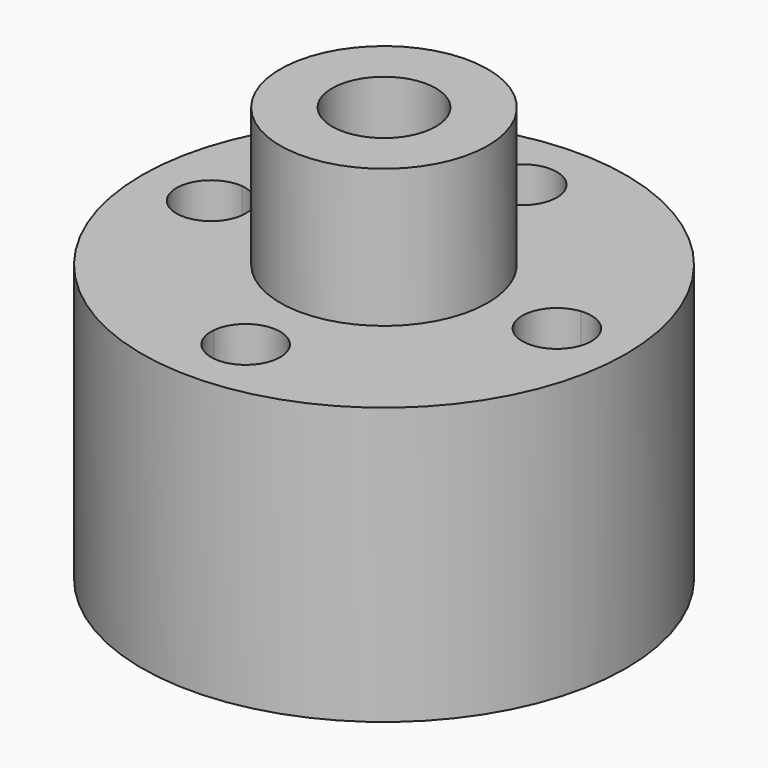
from build123d import *

# Parameters (mm, degrees)
F0_R     = 22.225
F0_R_2   = 9.525
F1_DEPTH = 25.4
F0_R_3   = 4.7625
F2_DEPTH = 38.1
F3_R     = 4.7625
F4_DEPTH = 38.1


with BuildPart() as f1:
    # F0 (on Top) → F1 (new body)
    with BuildSketch(Plane.XY):
        Circle(F0_R)
        with BuildLine():
            ThreePointArc((3.159085, 15.5575), (11.22532, 11.22532), (15.5575, 3.159085))
            ThreePointArc((15.5575, 3.159085), (18.004855, 2.354643), (19.05, 0))
            ThreePointArc((19.05, 0), (18.004855, -2.354643), (15.5575, -3.159085))
            ThreePointArc((15.5575, -3.159085), (11.22532, -11.22532), (3.159085, -15.5575))
            ThreePointArc((3.159085, -15.5575), (3.171019, -15.716051), (3.175, -15.875))
            ThreePointArc((3.175, -15.875), (-0.158949, -19.046019), (-3.159085, -15.5575))
            ThreePointArc((-3.159085, -15.5575), (-11.22532, -11.22532), (-15.5575, -3.159085))
            ThreePointArc((-15.5575, -3.159085), (-19.05, 0), (-15.5575, 3.159085))
            ThreePointArc((-15.5575, 3.159085), (-11.22532, 11.22532), (-3.159085, 15.5575))
            ThreePointArc((-3.159085, 15.5575), (-0.158949, 19.046019), (3.175, 15.875))
            ThreePointArc((3.175, 15.875), (3.171019, 15.716051), (3.159085, 15.5575))
        make_face(mode=Mode.SUBTRACT)
        with BuildLine():
            ThreePointArc((15.5575, -3.159085), (12.7, 0), (15.5575, 3.159085))
            ThreePointArc((15.5575, 3.159085), (11.22532, 11.22532), (3.159085, 15.5575))
            ThreePointArc((3.159085, 15.5575), (0, 12.7), (-3.159085, 15.5575))
            ThreePointArc((-3.159085, 15.5575), (-11.22532, 11.22532), (-15.5575, 3.159085))
            ThreePointArc((-15.5575, 3.159085), (-13.520357, 2.129855), (-12.7, 0))
            ThreePointArc((-12.7, 0), (-13.520357, -2.129855), (-15.5575, -3.159085))
            ThreePointArc((-15.5575, -3.159085), (-11.22532, -11.22532), (-3.159085, -15.5575))
            ThreePointArc((-3.159085, -15.5575), (0, -12.7), (3.159085, -15.5575))
            ThreePointArc((3.159085, -15.5575), (11.22532, -11.22532), (15.5575, -3.159085))
        make_face()
        Circle(F0_R_2, mode=Mode.SUBTRACT)
    extrude(amount=F1_DEPTH)

    # F0 (on Top) → F2 (join)
    with BuildSketch(Plane.XY):
        Circle(F0_R_2)
        Circle(F0_R_3, mode=Mode.SUBTRACT)
        Circle(F0_R_3)
    extrude(amount=F2_DEPTH)

    # F3 (on face) → F4 (cut)
    with BuildSketch(Plane.XY.offset(38.1)):
        Circle(F3_R)
    extrude(amount=-F4_DEPTH, mode=Mode.SUBTRACT)


solid = f1.part
